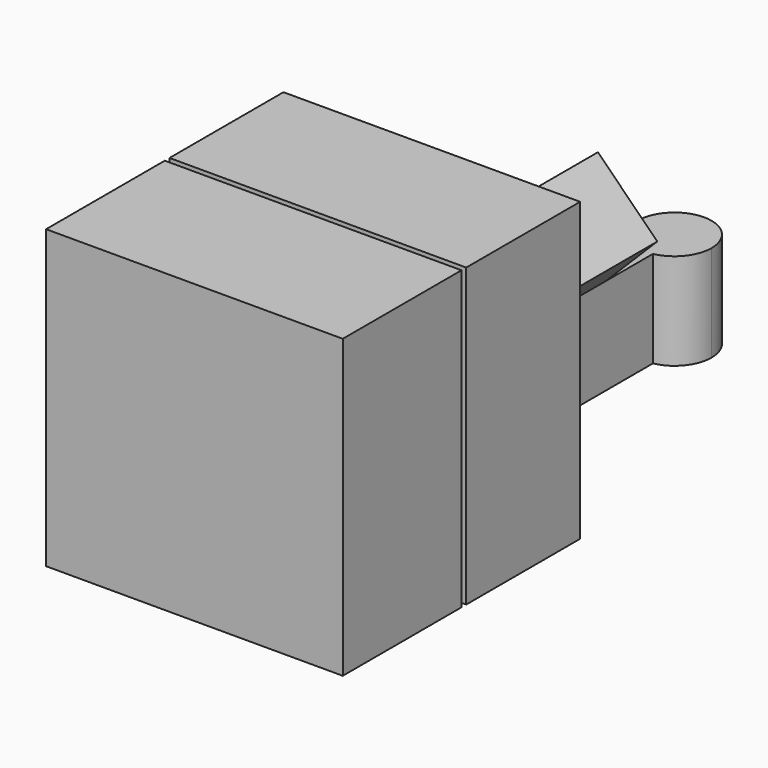
from build123d import *

# Parameters (mm, degrees)
F0_W          = 5
F0_H          = 10
F1_DEPTH      = 10
F0_W_2        = 4.8
F2_DEPTH      = 10
F4_DEPTH      = 10
F5_DEPTH      = 12
F7_DEPTH      = 2
F7_DEPTH_BACK = 12
F9_DEPTH      = 3.25


with BuildPart() as f1:
    # F0 (on Right) → F1 (new body)
    with BuildSketch(Plane.YZ):
        with Locations((-7.5, 5)):
            Rectangle(F0_W, F0_H)
    extrude(amount=F1_DEPTH)

    # F3 (on face) → F5 (join)
    with BuildSketch(Plane(origin=(0, -5, 0), x_dir=(-1, 0, 0), z_dir=(0, 1, 0))):
        Polygon((-7, 5), (-5, 3), (-3, 5), (-5, 7), align=None)
    extrude(amount=F5_DEPTH)

    # F6 (on face) → F7 (join, two sides)
    with BuildSketch(Plane(origin=(0, 7, 0), x_dir=(-1, 0, 0), z_dir=(0, 1, 0))) as f7_sk:
        Polygon((-5, 3), (-5.25, 3.25), (-5.25, 0), (-4.75, 0), (-4.75, 3.25), align=None)
        Polygon((-4.75, 3.25), (-5.25, 3.25), (-5, 3), align=None)
    extrude(amount=F7_DEPTH)
    extrude(f7_sk.sketch, amount=-F7_DEPTH_BACK)

    # F8 (on face) → F9 (join, through all)
    with BuildSketch(Plane(origin=(0, 0, 0), x_dir=(1, 0, 0), z_dir=(0, 0, -1))):
        with BuildLine():
            ThreePointArc((4.75, -9), (4.209430585, -11.1929907079), (6.25, -10.2247448714))
            ThreePointArc((6.25, -10.2247448714), (5.9682458366, -9.4341754563), (5.25, -9))
            Line((5.25, -9), (4.75, -9))
        make_face()
    extrude(amount=-F9_DEPTH)


with BuildPart() as f2:
    # F0 (on Right) → F2 (new body)
    with BuildSketch(Plane.YZ):
        with Locations((-2.4, 5)):
            Rectangle(F0_W_2, F0_H)
    extrude(amount=F2_DEPTH)

    # F3 (on face) → F4 (cut)
    with BuildSketch(Plane(origin=(0, -5, 0), x_dir=(-1, 0, 0), z_dir=(0, 1, 0))):
        Polygon((-7.2828427125, 5), (-5, 2.7171572875), (-2.7171572875, 5), (-5, 7.2828427125), align=None)
        Polygon((-3, 5), (-5, 3), (-7, 5), (-5, 7), align=None, mode=Mode.SUBTRACT)
        Polygon((-7, 5), (-5, 3), (-3, 5), (-5, 7), align=None)
    extrude(amount=F4_DEPTH, mode=Mode.SUBTRACT)


solid = Compound([f1.part, f2.part])
